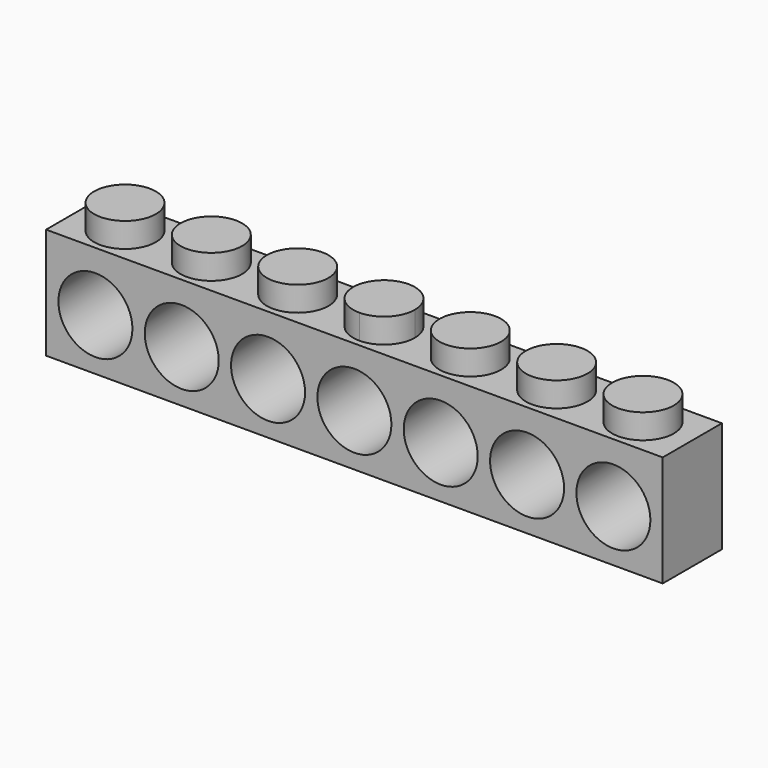
from build123d import *

# Parameters (mm, degrees)
F0_W     = 50
F0_H     = 9
F1_DEPTH = 6
F2_R     = 3
F3_DEPTH = 25
F4_R     = 2.5
F5_DEPTH = 2


with BuildPart() as f1:
    # F0 (on Front) → F1 (new body)
    with BuildSketch(Plane.XZ):
        with Locations((25, 4.5)):
            Rectangle(F0_W, F0_H)
    extrude(amount=F1_DEPTH)

    # F2 (on face) → F3 (cut)
    with BuildSketch(Plane.XZ.offset(6)):
        with Locations((4, 4.2)):
            Circle(F2_R)
        with Locations((11, 4.2)):
            Circle(F2_R)
        with Locations((18, 4.2)):
            Circle(F2_R)
        with Locations((25, 4.2)):
            Circle(F2_R)
        with Locations((32, 4.2)):
            Circle(F2_R)
        with Locations((39, 4.2)):
            Circle(F2_R)
        with Locations((46, 4.2)):
            Circle(F2_R)
    extrude(amount=-F3_DEPTH, mode=Mode.SUBTRACT)

    # F4 (on face) → F5 (join)
    with BuildSketch(Plane.XY.offset(9)):
        with Locations((4, -3)):
            Circle(F4_R)
        with Locations((11, -3)):
            Circle(F4_R)
        with Locations((18, -3)):
            Circle(F4_R)
        with BuildLine():
            ThreePointArc((27.5, -3), (26.767766953, -1.232233047), (25, -0.5))
            Line((25, -0.5), (25, -5.5))
            ThreePointArc((25, -5.5), (26.767766953, -4.767766953), (27.5, -3))
        make_face()
        with BuildLine():
            Line((25, -5.5), (25, -0.5))
            ThreePointArc((25, -0.5), (22.5, -3), (25, -5.5))
        make_face()
        with Locations((32, -3)):
            Circle(F4_R)
        with Locations((39, -3)):
            Circle(F4_R)
        with Locations((46, -3)):
            Circle(F4_R)
    extrude(amount=F5_DEPTH)


solid = f1.part
